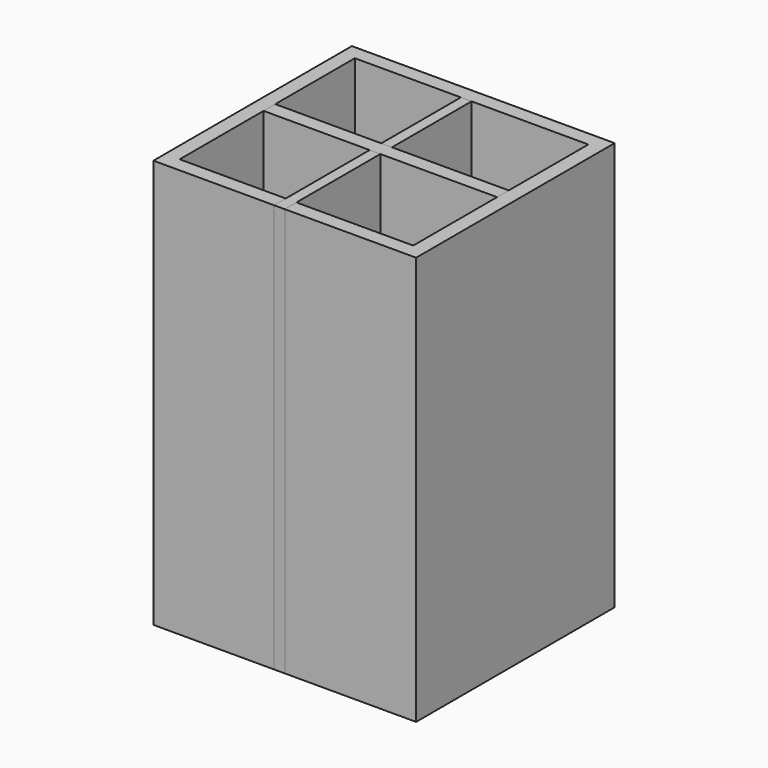
from build123d import *

# Parameters (mm, degrees)
F0_W      = 57.15
F0_H      = 88.9
F1_DEPTH  = 3.175
F2_W      = 3.175
F2_H      = 88.9
F3_DEPTH  = 50.8
F4_W      = 3.175
F4_H      = 88.9
F5_DEPTH  = 50.8
F6_W      = 53.975
F6_H      = 88.9
F7_DEPTH  = 3.175
F8_W      = 50.8
F8_H      = 47.625
F9_DEPTH  = 3.175
F10_W     = 2.328094095
F10_H     = 88.9
F11_DEPTH = 50.8
F12_W     = 3.175
F12_H     = 88.9
F13_DEPTH = 50.8


with BuildPart() as f1:
    # F0 (on Front) → F1 (new body)
    with BuildSketch(Plane.XZ):
        with Locations((2.328094095, 4.0216516092)):
            Rectangle(F0_W, F0_H)
    extrude(amount=F1_DEPTH)

    # F2 (on face) → F3 (join)
    with BuildSketch(Plane.XZ.offset(3.175)):
        with Locations((-24.659405905, 4.0216516092)):
            Rectangle(F2_W, F2_H)
    extrude(amount=F3_DEPTH)

    # F4 (on face) → F5 (join)
    with BuildSketch(Plane.XZ.offset(3.175)):
        with Locations((29.315594095, 4.0216516092)):
            Rectangle(F4_W, F4_H)
    extrude(amount=F5_DEPTH)

    # F6 (on face) → F7 (join)
    with BuildSketch(Plane.XZ.offset(53.975)):
        with Locations((3.915594095, 4.0216516092)):
            Rectangle(F6_W, F6_H)
    extrude(amount=-F7_DEPTH)


with BuildPart() as f9:
    # F8 (on face) → F9 (new body)
    with BuildSketch(Plane(origin=(0, 0, -40.4283483908), x_dir=(1, 0, 0), z_dir=(0, 0, -1))):
        with Locations((2.328094095, 26.9875)):
            Rectangle(F8_W, F8_H)
    extrude(amount=-F9_DEPTH)


with BuildPart() as f11:
    # F10 (on face) → F11 (new body)
    with BuildSketch(Plane.XZ.offset(3.175)):
        with Locations((1.1640470475, 4.0216516092)):
            Rectangle(F10_W, F10_H)
    extrude(amount=F11_DEPTH)


with BuildPart() as f13:
    # F12 (on face) → F13 (new body)
    with BuildSketch(Plane(origin=(27.728094095, 0, 0), x_dir=(0, -1, 0), z_dir=(-1, 0, 0))):
        with Locations((26.3994533062, 4.0216516092)):
            Rectangle(F12_W, F12_H)
    extrude(amount=F13_DEPTH)


solid = Compound([f1.part, f9.part, f11.part, f13.part])
